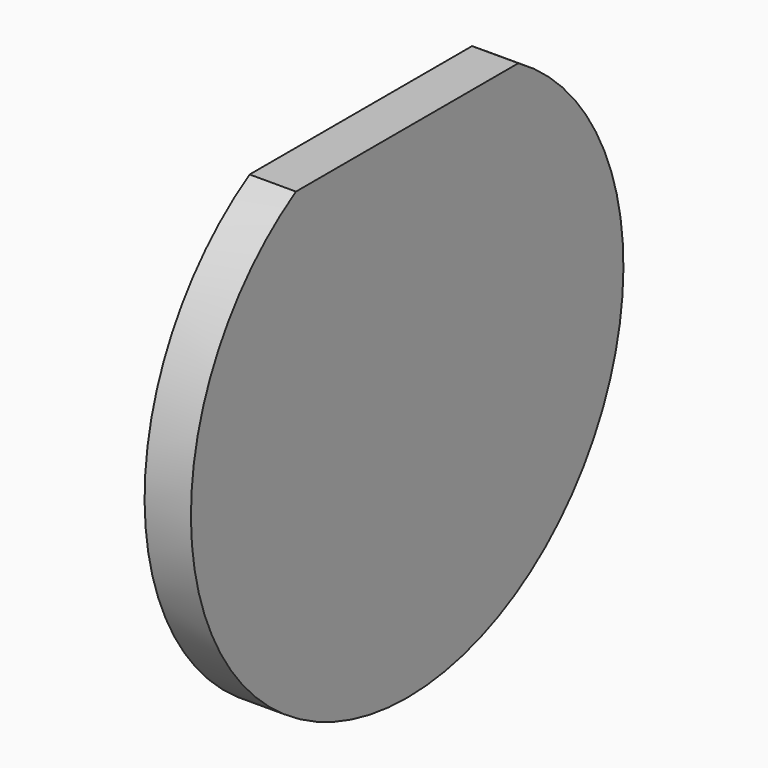
from build123d import *

# Parameters (mm, degrees)
F1_DEPTH = 3


with BuildPart() as f1:
    # F0 (on Right) → F1 (new body)
    with BuildSketch(Plane.YZ):
        with BuildLine():
            Line((9, 15.008331), (-9, 15.008331))
            ThreePointArc((-9, 15.008331), (0, -17.5), (9, 15.008331))
        make_face()
    extrude(amount=F1_DEPTH)


solid = f1.part
